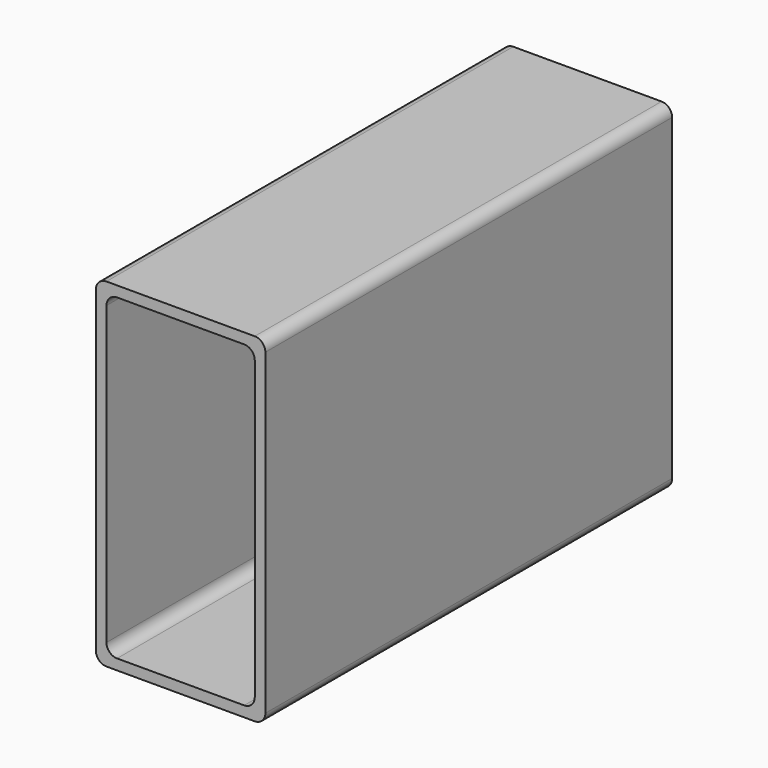
from build123d import *

# Parameters (mm, degrees)
F1_DEPTH = 152.4


with BuildPart() as f1:
    # F0 (on Front) → F1 (new body)
    with BuildSketch(Plane.XZ):
        with BuildLine():
            ThreePointArc((25.4, 47.625), (24.470064, 49.870064), (22.225, 50.8))
            Line((22.225, 50.8), (-22.225, 50.8))
            ThreePointArc((-22.225, 50.8), (-24.470064, 49.870064), (-25.4, 47.625))
            Line((-25.4, 47.625), (-25.4, -47.625))
            ThreePointArc((-25.4, -47.625), (-24.470064, -49.870064), (-22.225, -50.8))
            Line((-22.225, -50.8), (22.225, -50.8))
            ThreePointArc((22.225, -50.8), (24.470064, -49.870064), (25.4, -47.625))
            Line((25.4, -47.625), (25.4, 47.625))
        make_face()
        with BuildLine():
            Line((-19.05, 47.625), (19.05, 47.625))
            ThreePointArc((19.05, 47.625), (21.295064, 46.695064), (22.225, 44.45))
            Line((22.225, 44.45), (22.225, -44.45))
            ThreePointArc((22.225, -44.45), (21.295064, -46.695064), (19.05, -47.625))
            Line((19.05, -47.625), (-19.05, -47.625))
            ThreePointArc((-19.05, -47.625), (-21.295064, -46.695064), (-22.225, -44.45))
            Line((-22.225, -44.45), (-22.225, 44.45))
            ThreePointArc((-22.225, 44.45), (-21.295064, 46.695064), (-19.05, 47.625))
        make_face(mode=Mode.SUBTRACT)
    extrude(amount=F1_DEPTH)


solid = f1.part
